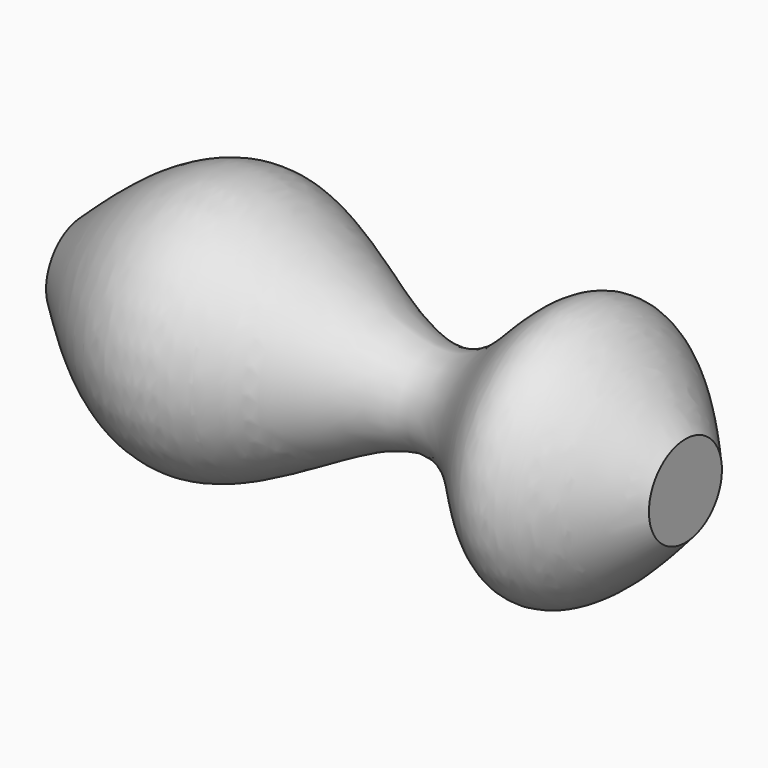
from build123d import *


with BuildPart() as f1:
    # F0 (on Front) → F1 (revolve)
    with BuildSketch(Plane.XZ):
        with BuildLine():
            Line((-50.6038926542, 6.2433378771), (-50.6038926542, 0))
            Line((-50.6038926542, 0), (31.8738818169, 0))
            Line((31.8738818169, 0), (31.8738818169, 6.2433378771))
            add(Edge.make_bspline(
                [(-50.6038926542, 6.2433378771), (-43.9225771695, 12.4842358256), (-29.7097496467, 25.7601851999), (0.9360000964, -3.8117360965), (14.8529207407, 24.9632213752), (26.1611493787, 12.5262783773), (31.8738818169, 6.2433378771)],
                knots=[0, 0, 0, 0, 0.2555169698, 0.5435484418, 0.7694081269, 1, 1, 1, 1], degree=3))
        make_face()
    revolve(axis=Axis((-9.3650054187, 0, 0), (1, 0, 0)))


solid = f1.part
